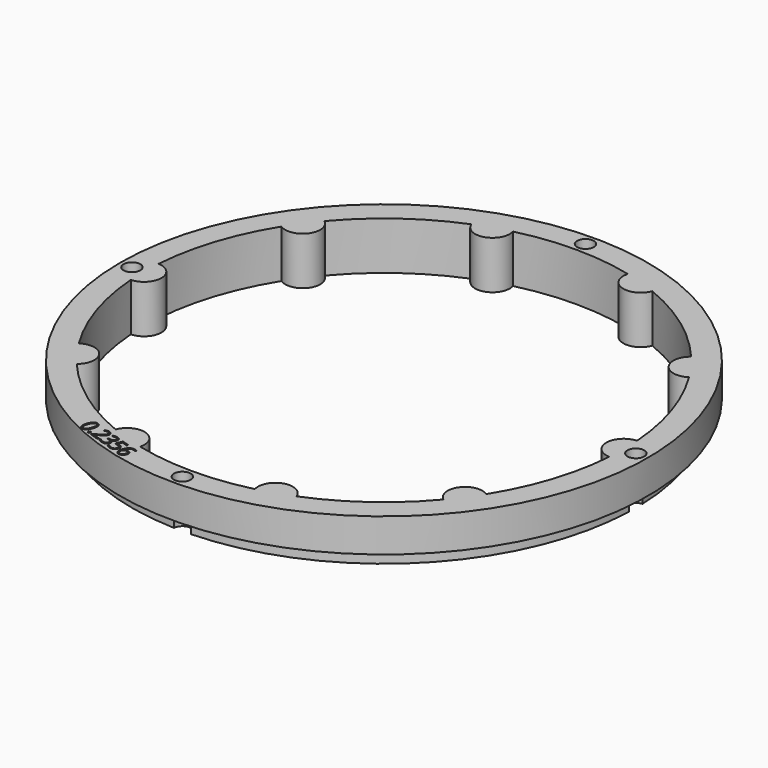
from build123d import *

# Parameters (mm, degrees)
SKETCH086_R             = 55
PAD029_DEPTH            = 10
POLARPATTERN009_COUNT   = 10
SKETCH087_R             = 55
SKETCH087_R_2           = 52.5
POCKET045_DEPTH         = 3
SKETCH088_R             = 1.75
POCKET046_DEPTH         = 321.770146
POCKET046_DEPTH_BACK    = 311.770146
POLARPATTERN010_COUNT   = 4
POCKET053_DEPTH         = 2
BODY005_ROLL_ANGLE      = 90
BODY005_PLACEMENT_ANGLE = -180


with BuildPart() as part:
    # Sketch086 → Pad029 (new body)
    with BuildSketch(Plane.XZ):
        Circle(SKETCH086_R)
        with BuildLine():
            ThreePointArc((49.867084, 3.643347), (-49.999994, -0.023787), (49.870527, -3.595899))
            ThreePointArc((49.867084, 3.643347), (46.377995, 0.022064), (49.870527, -3.595899))
        make_face(mode=Mode.SUBTRACT)
    pad029 = extrude(amount=PAD029_DEPTH)

    # PolarPattern009: Pad029 ×10 about axis
    polarpattern009_axis = Axis((0, 0, 0), (0, -1, 0))
    for i in range(1, POLARPATTERN009_COUNT):
        add(pad029.rotate(polarpattern009_axis, i * 360 / POLARPATTERN009_COUNT))

    # Sketch087 (on DatumPlane) → Pocket045 (cut)
    with BuildSketch(Plane.XZ.offset(10)):
        Circle(SKETCH087_R)
        Circle(SKETCH087_R_2, mode=Mode.SUBTRACT)
    extrude(amount=-POCKET045_DEPTH, mode=Mode.SUBTRACT)

    # Sketch088 (on DatumPlane) → Pocket046 (cut, two sides)
    with BuildSketch(Plane.XZ.offset(10)) as pocket046_sk:
        with Locations((52.5, 0)):
            Circle(SKETCH088_R)
    pocket046 = extrude(amount=-POCKET046_DEPTH, mode=Mode.SUBTRACT) + extrude(pocket046_sk.sketch, amount=POCKET046_DEPTH_BACK, mode=Mode.SUBTRACT)

    # PolarPattern010: Pocket046 ×4 about axis
    polarpattern010_axis = Axis((0, -10, 0), (0, -1, 0))
    for i in range(1, POLARPATTERN010_COUNT):
        add(pocket046.rotate(polarpattern010_axis, i * 360 / POLARPATTERN010_COUNT), mode=Mode.SUBTRACT)

    # Sketch101 (on Face2 of PolarPattern010) → Pocket053 (cut)
    with BuildSketch(Plane(origin=(0, 0, 0), x_dir=(1, 0, 0), z_dir=(0, 1, 0))):
        with BuildLine():
            add(Edge.make_bspline(
                [(21.9696, 48.2411), (22.0826, 48.5889), (22.2241, 48.8454)],
                knots=[0, 0, 0, 1, 1, 1], degree=2))
            add(Edge.make_bspline(
                [(22.2241, 48.8454), (22.3656, 49.1017), (22.5403, 49.2546)],
                knots=[0, 0, 0, 1, 1, 1], degree=2))
            add(Edge.make_bspline(
                [(22.5403, 49.2546), (22.715, 49.4074), (22.9264, 49.4477)],
                knots=[0, 0, 0, 1, 1, 1], degree=2))
            add(Edge.make_bspline(
                [(22.9264, 49.4477), (23.1378, 49.4881), (23.3893, 49.4064)],
                knots=[0, 0, 0, 1, 1, 1], degree=2))
            add(Edge.make_bspline(
                [(23.3893, 49.4064), (23.7071, 49.3031), (23.8583, 49.0617)],
                knots=[0, 0, 0, 1, 1, 1], degree=2))
            add(Edge.make_bspline(
                [(23.8583, 49.0617), (24.0093, 48.8204), (24.0048, 48.4579)],
                knots=[0, 0, 0, 1, 1, 1], degree=2))
            add(Edge.make_bspline(
                [(24.0048, 48.4579), (24.0001, 48.0954), (23.849, 47.6304)],
                knots=[0, 0, 0, 1, 1, 1], degree=2))
            add(Edge.make_bspline(
                [(23.849, 47.6304), (23.7005, 47.1733), (23.501, 46.8741)],
                knots=[0, 0, 0, 1, 1, 1], degree=2))
            add(Edge.make_bspline(
                [(23.501, 46.8741), (23.3013, 46.575), (23.0372, 46.4654)],
                knots=[0, 0, 0, 1, 1, 1], degree=2))
            add(Edge.make_bspline(
                [(23.0372, 46.4654), (22.7731, 46.3557), (22.4339, 46.4659)],
                knots=[0, 0, 0, 1, 1, 1], degree=2))
            add(Edge.make_bspline(
                [(22.4339, 46.4659), (22.1122, 46.5704), (21.9604, 46.8131)],
                knots=[0, 0, 0, 1, 1, 1], degree=2))
            add(Edge.make_bspline(
                [(21.9604, 46.8131), (21.8086, 47.0557), (21.8142, 47.4179)],
                knots=[0, 0, 0, 1, 1, 1], degree=2))
            add(Edge.make_bspline(
                [(21.8142, 47.4179), (21.8198, 47.78), (21.9696, 48.2411)],
                knots=[0, 0, 0, 1, 1, 1], degree=2))
        make_face()
        with BuildLine():
            add(Edge.make_bspline(
                [(23.5234, 47.7362), (23.653, 48.1351), (23.679, 48.4206)],
                knots=[0, 0, 0, 1, 1, 1], degree=2))
            add(Edge.make_bspline(
                [(23.679, 48.4206), (23.7049, 48.7061), (23.6123, 48.882)],
                knots=[0, 0, 0, 1, 1, 1], degree=2))
            add(Edge.make_bspline(
                [(23.6123, 48.882), (23.5196, 49.058), (23.2993, 49.1295)],
                knots=[0, 0, 0, 1, 1, 1], degree=2))
            add(Edge.make_bspline(
                [(23.2993, 49.1295), (23.079, 49.2011), (22.9011, 49.1142)],
                knots=[0, 0, 0, 1, 1, 1], degree=2))
            add(Edge.make_bspline(
                [(22.9011, 49.1142), (22.7229, 49.0273), (22.5752, 48.7814)],
                knots=[0, 0, 0, 1, 1, 1], degree=2))
            add(Edge.make_bspline(
                [(22.5752, 48.7814), (22.4274, 48.5355), (22.2971, 48.1346)],
                knots=[0, 0, 0, 1, 1, 1], degree=2))
            add(Edge.make_bspline(
                [(22.2971, 48.1346), (22.1695, 47.7417), (22.1439, 47.4573)],
                knots=[0, 0, 0, 1, 1, 1], degree=2))
            add(Edge.make_bspline(
                [(22.1439, 47.4573), (22.1182, 47.1728), (22.2093, 46.9952)],
                knots=[0, 0, 0, 1, 1, 1], degree=2))
            add(Edge.make_bspline(
                [(22.2093, 46.9952), (22.3002, 46.8175), (22.5244, 46.7447)],
                knots=[0, 0, 0, 1, 1, 1], degree=2))
            add(Edge.make_bspline(
                [(22.5244, 46.7447), (22.7487, 46.6718), (22.9267, 46.7621)],
                knots=[0, 0, 0, 1, 1, 1], degree=2))
            add(Edge.make_bspline(
                [(22.9267, 46.7621), (23.1047, 46.8523), (23.2503, 47.0978)],
                knots=[0, 0, 0, 1, 1, 1], degree=2))
            add(Edge.make_bspline(
                [(23.2503, 47.0978), (23.3957, 47.3433), (23.5234, 47.7362)],
                knots=[0, 0, 0, 1, 1, 1], degree=2))
        make_face(mode=Mode.SUBTRACT)
        with BuildLine():
            add(Edge.make_bspline(
                [(21.8712, 49.6105), (21.8269, 49.474), (21.7419, 49.4381)],
                knots=[0, 0, 0, 1, 1, 1], degree=2))
            add(Edge.make_bspline(
                [(21.7419, 49.4381), (21.657, 49.4021), (21.5614, 49.4331)],
                knots=[0, 0, 0, 1, 1, 1], degree=2))
            add(Edge.make_bspline(
                [(21.5614, 49.4331), (21.462, 49.4654), (21.4125, 49.5452)],
                knots=[0, 0, 0, 1, 1, 1], degree=2))
            add(Edge.make_bspline(
                [(21.4125, 49.5452), (21.3629, 49.6248), (21.4072, 49.7613)],
                knots=[0, 0, 0, 1, 1, 1], degree=2))
            add(Edge.make_bspline(
                [(21.4072, 49.7613), (21.4509, 49.8958), (21.5392, 49.9351)],
                knots=[0, 0, 0, 1, 1, 1], degree=2))
            add(Edge.make_bspline(
                [(21.5392, 49.9351), (21.6273, 49.9743), (21.7268, 49.942)],
                knots=[0, 0, 0, 1, 1, 1], degree=2))
            add(Edge.make_bspline(
                [(21.7268, 49.942), (21.8223, 49.9109), (21.8686, 49.8281)],
                knots=[0, 0, 0, 1, 1, 1], degree=2))
            add(Edge.make_bspline(
                [(21.8686, 49.8281), (21.9149, 49.745), (21.8712, 49.6105)],
                knots=[0, 0, 0, 1, 1, 1], degree=2))
        make_face()
        with BuildLine():
            Line((19.121732, 50.744721), (20.989446, 50.137865))
            Line((20.989446, 50.137865), (20.901395, 49.866871))
            Line((20.901395, 49.866871), (19.887, 49.3387))
            add(Edge.make_bspline(
                [(19.887, 49.3387), (19.6047, 49.1928), (19.4049, 49.0719)],
                knots=[0, 0, 0, 1, 1, 1], degree=2))
            add(Edge.make_bspline(
                [(19.4049, 49.0719), (19.205, 48.9511), (19.0759, 48.8127)],
                knots=[0, 0, 0, 1, 1, 1], degree=2))
            add(Edge.make_bspline(
                [(19.0759, 48.8127), (18.9469, 48.6741), (18.8833, 48.4787)],
                knots=[0, 0, 0, 1, 1, 1], degree=2))
            add(Edge.make_bspline(
                [(18.8833, 48.4787), (18.8046, 48.2364), (18.9064, 48.0618)],
                knots=[0, 0, 0, 1, 1, 1], degree=2))
            add(Edge.make_bspline(
                [(18.9064, 48.0618), (19.008, 47.8872), (19.242, 47.8112)],
                knots=[0, 0, 0, 1, 1, 1], degree=2))
            add(Edge.make_bspline(
                [(19.242, 47.8112), (19.4467, 47.7447), (19.6274, 47.7636)],
                knots=[0, 0, 0, 1, 1, 1], degree=2))
            add(Edge.make_bspline(
                [(19.6274, 47.7636), (19.8081, 47.7824), (20.015652, 47.857275)],
                knots=[0, 0, 0, 1, 1, 1], degree=2))
            Line((20.015652, 47.857275), (20.1182, 47.5825))
            add(Edge.make_bspline(
                [(20.1182, 47.5825), (19.9741, 47.5238), (19.8165, 47.493)],
                knots=[0, 0, 0, 1, 1, 1], degree=2))
            add(Edge.make_bspline(
                [(19.8165, 47.493), (19.6589, 47.4624), (19.4919, 47.4692)],
                knots=[0, 0, 0, 1, 1, 1], degree=2))
            add(Edge.make_bspline(
                [(19.4919, 47.4692), (19.3249, 47.476), (19.1514, 47.5324)],
                knots=[0, 0, 0, 1, 1, 1], degree=2))
            add(Edge.make_bspline(
                [(19.1514, 47.5324), (18.8882, 47.6179), (18.727, 47.7719)],
                knots=[0, 0, 0, 1, 1, 1], degree=2))
            add(Edge.make_bspline(
                [(18.727, 47.7719), (18.5657, 47.9257), (18.5167, 48.1296)],
                knots=[0, 0, 0, 1, 1, 1], degree=2))
            add(Edge.make_bspline(
                [(18.5167, 48.1296), (18.4676, 48.3335), (18.5438, 48.568)],
                knots=[0, 0, 0, 1, 1, 1], degree=2))
            add(Edge.make_bspline(
                [(18.5438, 48.568), (18.6174, 48.7945), (18.7703, 48.9598)],
                knots=[0, 0, 0, 1, 1, 1], degree=2))
            add(Edge.make_bspline(
                [(18.7703, 48.9598), (18.9231, 49.1252), (19.1469, 49.2631)],
                knots=[0, 0, 0, 1, 1, 1], degree=2))
            add(Edge.make_bspline(
                [(19.1469, 49.2631), (19.3705, 49.4009), (19.656159, 49.543658)],
                knots=[0, 0, 0, 1, 1, 1], degree=2))
            Line((19.656159, 49.543658), (20.477361, 49.961539))
            Line((20.477361, 49.961539), (20.481795, 49.975186))
            Line((20.481795, 49.975186), (19.025446, 50.448383))
            Line((19.025446, 50.448383), (19.121732, 50.744721))
        make_face()
        with BuildLine():
            add(Edge.make_bspline(
                [(16.2372, 49.2641), (16.2997, 49.4564), (16.4196, 49.5735)],
                knots=[0, 0, 0, 1, 1, 1], degree=2))
            add(Edge.make_bspline(
                [(16.4196, 49.5735), (16.5396, 49.6905), (16.7012, 49.7368)],
                knots=[0, 0, 0, 1, 1, 1], degree=2))
            add(Edge.make_bspline(
                [(16.7012, 49.7368), (16.8627, 49.7828), (17.053558, 49.759912)],
                knots=[0, 0, 0, 1, 1, 1], degree=2))
            Line((17.053558, 49.759912), (17.0586, 49.7755))
            add(Edge.make_bspline(
                [(17.0586, 49.7755), (16.7333, 49.9286), (16.6199, 50.1598)],
                knots=[0, 0, 0, 1, 1, 1], degree=2))
            add(Edge.make_bspline(
                [(16.6199, 50.1598), (16.5063, 50.3909), (16.599, 50.676)],
                knots=[0, 0, 0, 1, 1, 1], degree=2))
            add(Edge.make_bspline(
                [(16.599, 50.676), (16.6795, 50.9239), (16.8578, 51.0776)],
                knots=[0, 0, 0, 1, 1, 1], degree=2))
            add(Edge.make_bspline(
                [(16.8578, 51.0776), (17.0359, 51.2312), (17.31, 51.262)],
                knots=[0, 0, 0, 1, 1, 1], degree=2))
            add(Edge.make_bspline(
                [(17.31, 51.262), (17.5839, 51.2927), (17.9563, 51.1717)],
                knots=[0, 0, 0, 1, 1, 1], degree=2))
            add(Edge.make_bspline(
                [(17.9563, 51.1717), (18.1824, 51.0982), (18.3628, 50.9996)],
                knots=[0, 0, 0, 1, 1, 1], degree=2))
            add(Edge.make_bspline(
                [(18.3628, 50.9996), (18.5431, 50.9013), (18.691297, 50.760426)],
                knots=[0, 0, 0, 1, 1, 1], degree=2))
            Line((18.691297, 50.760426), (18.5925, 50.4563))
            add(Edge.make_bspline(
                [(18.5925, 50.4563), (18.4436, 50.6017), (18.2511, 50.7192)],
                knots=[0, 0, 0, 1, 1, 1], degree=2))
            add(Edge.make_bspline(
                [(18.2511, 50.7192), (18.0587, 50.8367), (17.8637, 50.9)],
                knots=[0, 0, 0, 1, 1, 1], degree=2))
            add(Edge.make_bspline(
                [(17.8637, 50.9), (17.4738, 51.0267), (17.2498, 50.9278)],
                knots=[0, 0, 0, 1, 1, 1], degree=2))
            add(Edge.make_bspline(
                [(17.2498, 50.9278), (17.0258, 50.8288), (16.9383, 50.5594)],
                knots=[0, 0, 0, 1, 1, 1], degree=2))
            add(Edge.make_bspline(
                [(16.9383, 50.5594), (16.878, 50.3738), (16.9374, 50.2282)],
                knots=[0, 0, 0, 1, 1, 1], degree=2))
            add(Edge.make_bspline(
                [(16.9374, 50.2282), (16.9967, 50.0826), (17.1597, 49.9703)],
                knots=[0, 0, 0, 1, 1, 1], degree=2))
            add(Edge.make_bspline(
                [(17.1597, 49.9703), (17.3225, 49.8579), (17.575939, 49.775546)],
                knots=[0, 0, 0, 1, 1, 1], degree=2))
            Line((17.575939, 49.775546), (17.86058, 49.683061))
            Line((17.86058, 49.683061), (17.770629, 49.406218))
            Line((17.770629, 49.406218), (17.484, 49.4993))
            add(Edge.make_bspline(
                [(17.484, 49.4993), (17.252, 49.5747), (17.0679, 49.5585)],
                knots=[0, 0, 0, 1, 1, 1], degree=2))
            add(Edge.make_bspline(
                [(17.0679, 49.5585), (16.8837, 49.5422), (16.7584, 49.445)],
                knots=[0, 0, 0, 1, 1, 1], degree=2))
            add(Edge.make_bspline(
                [(16.7584, 49.445), (16.633, 49.3478), (16.5774, 49.1768)],
                knots=[0, 0, 0, 1, 1, 1], degree=2))
            add(Edge.make_bspline(
                [(16.5774, 49.1768), (16.5065, 48.9587), (16.6122, 48.7929)],
                knots=[0, 0, 0, 1, 1, 1], degree=2))
            add(Edge.make_bspline(
                [(16.6122, 48.7929), (16.7178, 48.6271), (16.9654, 48.5466)],
                knots=[0, 0, 0, 1, 1, 1], degree=2))
            add(Edge.make_bspline(
                [(16.9654, 48.5466), (17.1175, 48.4972), (17.2524, 48.4878)],
                knots=[0, 0, 0, 1, 1, 1], degree=2))
            add(Edge.make_bspline(
                [(17.2524, 48.4878), (17.3873, 48.4785), (17.5142, 48.4976)],
                knots=[0, 0, 0, 1, 1, 1], degree=2))
            add(Edge.make_bspline(
                [(17.5142, 48.4976), (17.6411, 48.5167), (17.773732, 48.553387)],
                knots=[0, 0, 0, 1, 1, 1], degree=2))
            Line((17.773732, 48.553387), (17.8653, 48.2779))
            add(Edge.make_bspline(
                [(17.8653, 48.2779), (17.67, 48.2077), (17.4173, 48.1928)],
                knots=[0, 0, 0, 1, 1, 1], degree=2))
            add(Edge.make_bspline(
                [(17.4173, 48.1928), (17.1646, 48.178), (16.88, 48.2704)],
                knots=[0, 0, 0, 1, 1, 1], degree=2))
            add(Edge.make_bspline(
                [(16.88, 48.2704), (16.4433, 48.4123), (16.2899, 48.6833)],
                knots=[0, 0, 0, 1, 1, 1], degree=2))
            add(Edge.make_bspline(
                [(16.2899, 48.6833), (16.1365, 48.9543), (16.2372, 49.2641)],
                knots=[0, 0, 0, 1, 1, 1], degree=2))
        make_face()
        with BuildLine():
            add(Edge.make_bspline(
                [(14.9627, 50.1648), (14.6722, 50.2592), (14.4899, 50.4278)],
                knots=[0, 0, 0, 1, 1, 1], degree=2))
            add(Edge.make_bspline(
                [(14.4899, 50.4278), (14.3076, 50.5964), (14.2508, 50.8227)],
                knots=[0, 0, 0, 1, 1, 1], degree=2))
            add(Edge.make_bspline(
                [(14.2508, 50.8227), (14.1939, 51.0492), (14.2811, 51.3176)],
                knots=[0, 0, 0, 1, 1, 1], degree=2))
            add(Edge.make_bspline(
                [(14.2811, 51.3176), (14.3766, 51.6114), (14.5724, 51.7829)],
                knots=[0, 0, 0, 1, 1, 1], degree=2))
            add(Edge.make_bspline(
                [(14.5724, 51.7829), (14.7682, 51.9542), (15.0433, 51.9916)],
                knots=[0, 0, 0, 1, 1, 1], degree=2))
            add(Edge.make_bspline(
                [(15.0433, 51.9916), (15.3184, 52.0288), (15.6498, 51.9211)],
                knots=[0, 0, 0, 1, 1, 1], degree=2))
            add(Edge.make_bspline(
                [(15.6498, 51.9211), (15.872, 51.8489), (16.0504, 51.7478)],
                knots=[0, 0, 0, 1, 1, 1], degree=2))
            add(Edge.make_bspline(
                [(16.0504, 51.7478), (16.2288, 51.6468), (16.334104, 51.526324)],
                knots=[0, 0, 0, 1, 1, 1], degree=2))
            Line((16.334104, 51.526324), (16.234, 51.2183))
            add(Edge.make_bspline(
                [(16.234, 51.2183), (16.1196, 51.3503), (15.9333, 51.4669)],
                knots=[0, 0, 0, 1, 1, 1], degree=2))
            add(Edge.make_bspline(
                [(15.9333, 51.4669), (15.747, 51.5835), (15.5559, 51.6455)],
                knots=[0, 0, 0, 1, 1, 1], degree=2))
            add(Edge.make_bspline(
                [(15.5559, 51.6455), (15.3395, 51.7158), (15.1542, 51.6991)],
                knots=[0, 0, 0, 1, 1, 1], degree=2))
            add(Edge.make_bspline(
                [(15.1542, 51.6991), (14.9687, 51.6823), (14.8318, 51.5694)],
                knots=[0, 0, 0, 1, 1, 1], degree=2))
            add(Edge.make_bspline(
                [(14.8318, 51.5694), (14.6948, 51.4564), (14.6247, 51.2406)],
                knots=[0, 0, 0, 1, 1, 1], degree=2))
            add(Edge.make_bspline(
                [(14.6247, 51.2406), (14.5316, 50.954), (14.6554, 50.7412)],
                knots=[0, 0, 0, 1, 1, 1], degree=2))
            add(Edge.make_bspline(
                [(14.6554, 50.7412), (14.7791, 50.5284), (15.1554, 50.4061)],
                knots=[0, 0, 0, 1, 1, 1], degree=2))
            add(Edge.make_bspline(
                [(15.1554, 50.4061), (15.2763, 50.3668), (15.4269, 50.3395)],
                knots=[0, 0, 0, 1, 1, 1], degree=2))
            add(Edge.make_bspline(
                [(15.4269, 50.3395), (15.5775, 50.3121), (15.678647, 50.305078)],
                knots=[0, 0, 0, 1, 1, 1], degree=2))
            Line((15.678647, 50.305078), (15.807573, 50.14464))
            Line((15.807573, 50.14464), (15.264178, 48.84373))
            Line((15.264178, 48.84373), (13.846821, 49.304257))
            Line((13.846821, 49.304257), (13.943107, 49.600596))
            Line((13.943107, 49.600596), (15.083621, 49.230021))
            Line((15.083621, 49.230021), (15.4348, 50.0653))
            add(Edge.make_bspline(
                [(15.4348, 50.0653), (15.3556, 50.0738), (15.2333, 50.0953)],
                knots=[0, 0, 0, 1, 1, 1], degree=2))
            add(Edge.make_bspline(
                [(15.2333, 50.0953), (15.1109, 50.1167), (14.9627, 50.1648)],
                knots=[0, 0, 0, 1, 1, 1], degree=2))
        make_face()
        with BuildLine():
            add(Edge.make_bspline(
                [(13.7267, 51.1508), (13.6428, 50.8926), (13.5268, 50.6578)],
                knots=[0, 0, 0, 1, 1, 1], degree=2))
            add(Edge.make_bspline(
                [(13.5268, 50.6578), (13.4105, 50.423), (13.2558, 50.2386)],
                knots=[0, 0, 0, 1, 1, 1], degree=2))
            add(Edge.make_bspline(
                [(13.2558, 50.2386), (13.101, 50.0543), (12.9007, 49.942)],
                knots=[0, 0, 0, 1, 1, 1], degree=2))
            add(Edge.make_bspline(
                [(12.9007, 49.942), (12.7004, 49.8296), (12.4496, 49.8105)],
                knots=[0, 0, 0, 1, 1, 1], degree=2))
            add(Edge.make_bspline(
                [(12.4496, 49.8105), (12.1987, 49.7915), (11.8888, 49.8922)],
                knots=[0, 0, 0, 1, 1, 1], degree=2))
            add(Edge.make_bspline(
                [(11.8888, 49.8922), (11.801, 49.9207), (11.7025, 49.9625)],
                knots=[0, 0, 0, 1, 1, 1], degree=2))
            add(Edge.make_bspline(
                [(11.7025, 49.9625), (11.604, 50.0041), (11.544014, 50.045156)],
                knots=[0, 0, 0, 1, 1, 1], degree=2))
            Line((11.544014, 50.045156), (11.6346, 50.3239))
            add(Edge.make_bspline(
                [(11.6346, 50.3239), (11.6985, 50.2752), (11.7874, 50.2334)],
                knots=[0, 0, 0, 1, 1, 1], degree=2))
            add(Edge.make_bspline(
                [(11.7874, 50.2334), (11.8761, 50.1916), (11.9697, 50.1612)],
                knots=[0, 0, 0, 1, 1, 1], degree=2))
            add(Edge.make_bspline(
                [(11.9697, 50.1612), (12.3323, 50.0434), (12.5916, 50.1346)],
                knots=[0, 0, 0, 1, 1, 1], degree=2))
            add(Edge.make_bspline(
                [(12.5916, 50.1346), (12.8507, 50.2257), (13.0304, 50.4672)],
                knots=[0, 0, 0, 1, 1, 1], degree=2))
            add(Edge.make_bspline(
                [(13.0304, 50.4672), (13.2102, 50.7087), (13.33394, 51.043066)],
                knots=[0, 0, 0, 1, 1, 1], degree=2))
            Line((13.33394, 51.043066), (13.3125, 51.05))
            add(Edge.make_bspline(
                [(13.3125, 51.05), (13.2204, 50.9722), (13.1012, 50.9237)],
                knots=[0, 0, 0, 1, 1, 1], degree=2))
            add(Edge.make_bspline(
                [(13.1012, 50.9237), (12.9819, 50.8751), (12.8332, 50.8717)],
                knots=[0, 0, 0, 1, 1, 1], degree=2))
            add(Edge.make_bspline(
                [(12.8332, 50.8717), (12.6844, 50.8683), (12.507, 50.9259)],
                knots=[0, 0, 0, 1, 1, 1], degree=2))
            add(Edge.make_bspline(
                [(12.507, 50.9259), (12.2574, 51.007), (12.1044, 51.1691)],
                knots=[0, 0, 0, 1, 1, 1], degree=2))
            add(Edge.make_bspline(
                [(12.1044, 51.1691), (11.9511, 51.3313), (11.9117, 51.5581)],
                knots=[0, 0, 0, 1, 1, 1], degree=2))
            add(Edge.make_bspline(
                [(11.9117, 51.5581), (11.8722, 51.7849), (11.9618, 52.0605)],
                knots=[0, 0, 0, 1, 1, 1], degree=2))
            add(Edge.make_bspline(
                [(11.9618, 52.0605), (12.0577, 52.3557), (12.2367, 52.5352)],
                knots=[0, 0, 0, 1, 1, 1], degree=2))
            add(Edge.make_bspline(
                [(12.2367, 52.5352), (12.4157, 52.7147), (12.6554, 52.7654)],
                knots=[0, 0, 0, 1, 1, 1], degree=2))
            add(Edge.make_bspline(
                [(12.6554, 52.7654), (12.8949, 52.8162), (13.1737, 52.7256)],
                knots=[0, 0, 0, 1, 1, 1], degree=2))
            add(Edge.make_bspline(
                [(13.1737, 52.7256), (13.3823, 52.6579), (13.5317, 52.5207)],
                knots=[0, 0, 0, 1, 1, 1], degree=2))
            add(Edge.make_bspline(
                [(13.5317, 52.5207), (13.6811, 52.3835), (13.7593, 52.1829)],
                knots=[0, 0, 0, 1, 1, 1], degree=2))
            add(Edge.make_bspline(
                [(13.7593, 52.1829), (13.8374, 51.9822), (13.833, 51.7231)],
                knots=[0, 0, 0, 1, 1, 1], degree=2))
            add(Edge.make_bspline(
                [(13.833, 51.7231), (13.8285, 51.4639), (13.7267, 51.1508)],
                knots=[0, 0, 0, 1, 1, 1], degree=2))
        make_face()
        with BuildLine():
            add(Edge.make_bspline(
                [(13.0889, 52.4514), (12.8237, 52.5376), (12.6085, 52.4193)],
                knots=[0, 0, 0, 1, 1, 1], degree=2))
            add(Edge.make_bspline(
                [(12.6085, 52.4193), (12.3934, 52.3009), (12.2814, 51.9565)],
                knots=[0, 0, 0, 1, 1, 1], degree=2))
            add(Edge.make_bspline(
                [(12.2814, 51.9565), (12.1899, 51.6747), (12.2788, 51.4642)],
                knots=[0, 0, 0, 1, 1, 1], degree=2))
            add(Edge.make_bspline(
                [(12.2788, 51.4642), (12.3677, 51.2535), (12.6543, 51.1604)],
                knots=[0, 0, 0, 1, 1, 1], degree=2))
            add(Edge.make_bspline(
                [(12.6543, 51.1604), (12.8493, 51.0971), (13.0199, 51.1314)],
                knots=[0, 0, 0, 1, 1, 1], degree=2))
            add(Edge.make_bspline(
                [(13.0199, 51.1314), (13.1906, 51.1658), (13.3106, 51.2632)],
                knots=[0, 0, 0, 1, 1, 1], degree=2))
            add(Edge.make_bspline(
                [(13.3106, 51.2632), (13.4306, 51.3604), (13.4719, 51.4875)],
                knots=[0, 0, 0, 1, 1, 1], degree=2))
            add(Edge.make_bspline(
                [(13.4719, 51.4875), (13.5139, 51.6167), (13.5192, 51.7621)],
                knots=[0, 0, 0, 1, 1, 1], degree=2))
            add(Edge.make_bspline(
                [(13.5192, 51.7621), (13.5243, 51.9076), (13.4832, 52.0464)],
                knots=[0, 0, 0, 1, 1, 1], degree=2))
            add(Edge.make_bspline(
                [(13.4832, 52.0464), (13.4421, 52.1852), (13.3454, 52.2924)],
                knots=[0, 0, 0, 1, 1, 1], degree=2))
            add(Edge.make_bspline(
                [(13.3454, 52.2924), (13.2487, 52.3995), (13.0889, 52.4514)],
                knots=[0, 0, 0, 1, 1, 1], degree=2))
        make_face(mode=Mode.SUBTRACT)
    extrude(amount=-POCKET053_DEPTH, mode=Mode.SUBTRACT)


with BuildPart() as part_1:
    # Body005 roll: moved
    add(part.part.rotate(Axis((0, 0, 0), (1, 0, 0)), BODY005_ROLL_ANGLE))


with BuildPart() as part_2:
    # Body005 placement: moved
    add(part_1.part.moved(Location((-1.52, 0, 64))).rotate(Axis((-1.52, 0, 64), (0, 0, 1)), BODY005_PLACEMENT_ANGLE))


solid = part_2.part
